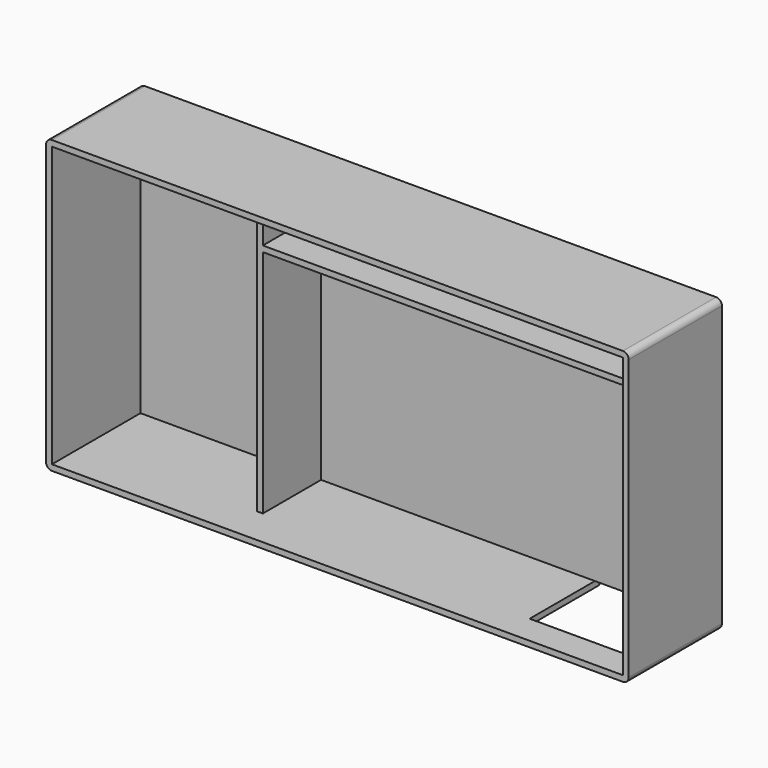
from build123d import *

# Parameters (mm, degrees)
F0_W      = 200
F0_H      = 100
F0_W_2    = 196
F0_H_2    = 96
F1_DEPTH  = 40
F2_DEPTH  = 2
F3_W      = 62
F3_H      = 96
F4_DEPTH  = 25
F5_W      = 60
F5_H      = 96
F6_DEPTH  = 25
F8_DEPTH  = 25
F9_W      = 14
F9_H      = 10
F10_DEPTH = 5
F12_W     = 10
F12_H     = 10
F13_DEPTH = 5
F14_R     = 2
F15_W     = 20
F15_H     = 15
F16_DEPTH = 2
F17_W     = 15
F17_H     = 10
F18_DEPTH = 2
F19_W     = 86
F19_H     = 2
F20_DEPTH = 25
F21_W     = 25
F21_H     = 15
F22_DEPTH = 88
F23_W     = 40
F23_H     = 30
F24_DEPTH = 2
F25_W     = 20
F25_H     = 15
F26_DEPTH = 2


with BuildPart() as f1:
    # F0 (on Front) → F1 (new body)
    with BuildSketch(Plane.XZ):
        with Locations((-23.666499, -18.106852)):
            Rectangle(F0_W, F0_H)
        with Locations((-23.666499, -18.106852)):
            Rectangle(F0_W_2, F0_H_2, mode=Mode.SUBTRACT)
    extrude(amount=F1_DEPTH)

    # F0 (on Front) → F2 (join)
    with BuildSketch(Plane.XZ):
        with Locations((-23.666499, -18.106852)):
            Rectangle(F0_W_2, F0_H_2)
    extrude(amount=F2_DEPTH)

    # F3 (on face) → F4 (join)
    with BuildSketch(Plane.XZ.offset(2)):
        with Locations((-90.666499, -18.106852)):
            Rectangle(F3_W, F3_H)
    extrude(amount=F4_DEPTH)

    # F5 (on face) → F6 (cut)
    with BuildSketch(Plane.XZ.offset(27)):
        with Locations((-91.666499, -18.106852)):
            Rectangle(F5_W, F5_H)
    extrude(amount=-F6_DEPTH, mode=Mode.SUBTRACT)

    # F7 (on face) → F8 (join)
    with BuildSketch(Plane.XZ.offset(2)):
        Polygon((-11.666499, 29.893148), (-13.666499, 29.893148), (-13.666499, 14.893148), (-59.666499, 14.893148), (-59.666499, 12.893148), (-11.666499, 12.893148), align=None)
    extrude(amount=F8_DEPTH)

    # F9 (on face) → F10 (cut)
    with BuildSketch(Plane(origin=(0, 0, 12.893148), x_dir=(1, 0, 0), z_dir=(0, 0, -1))):
        with Locations((0.078483, 7)):
            Rectangle(F9_W, F9_H)
    extrude(amount=-F10_DEPTH, mode=Mode.SUBTRACT)

    # F12 (on face) → F13 (cut)
    with BuildSketch(Plane(origin=(-61.666499, 0, 0), x_dir=(0, -1, 0), z_dir=(-1, 0, 0))):
        with Locations((7, 21.893148)):
            Rectangle(F12_W, F12_H)
    extrude(amount=-F13_DEPTH, mode=Mode.SUBTRACT)

    # F14
    f14_edges = [f1.edges().sort_by_distance(p)[0] for p in [
        (76.333501, -20, -68.106852),
        (76.333501, -20, 31.893148),
        (-123.666499, -20, -68.106852),
        (-123.666499, -20, 31.893148),
    ]]
    fillet(f14_edges, radius=F14_R)

    # F15 (on face) → F16 (cut)
    with BuildSketch(Plane(origin=(0, 0, 12.893148), x_dir=(1, 0, 0), z_dir=(0, 0, -1))):
        with Locations((-35.666499, 9.5)):
            Rectangle(F15_W, F15_H)
    extrude(amount=-F16_DEPTH, mode=Mode.SUBTRACT)

    # F17 (on face) → F18 (cut)
    with BuildSketch(Plane.YZ.offset(-11.666499)):
        with Locations((-9.5, 21.393148)):
            Rectangle(F17_W, F17_H)
    extrude(amount=-F18_DEPTH, mode=Mode.SUBTRACT)

    # F19 (on face) → F20 (join)
    with BuildSketch(Plane.XZ.offset(2)):
        with Locations((31.333501, 13.893148)):
            Rectangle(F19_W, F19_H)
        with Locations((31.333501, 28.893148)):
            Rectangle(F19_W, F19_H)
    extrude(amount=F20_DEPTH)

    # F21 (on face) → F22 (cut)
    with BuildSketch(Plane(origin=(-13.666499, 0, 0), x_dir=(0, -1, 0), z_dir=(-1, 0, 0))):
        with Locations((14.5, 22.393148)):
            Rectangle(F21_W, F21_H)
    extrude(amount=-F22_DEPTH, mode=Mode.SUBTRACT)

    # F23 (on face) → F24 (cut)
    with BuildSketch(Plane(origin=(0, 0, -68.106852), x_dir=(1, 0, 0), z_dir=(0, 0, -1))):
        with Locations((54.333501, 15)):
            Rectangle(F23_W, F23_H)
    extrude(amount=-F24_DEPTH, mode=Mode.SUBTRACT)

    # F25 (on face) → F26 (cut)
    with BuildSketch(Plane(origin=(0, 0, 12.893148), x_dir=(1, 0, 0), z_dir=(0, 0, -1))):
        with Locations((64.333501, 9.5)):
            Rectangle(F25_W, F25_H)
    extrude(amount=-F26_DEPTH, mode=Mode.SUBTRACT)


solid = f1.part
